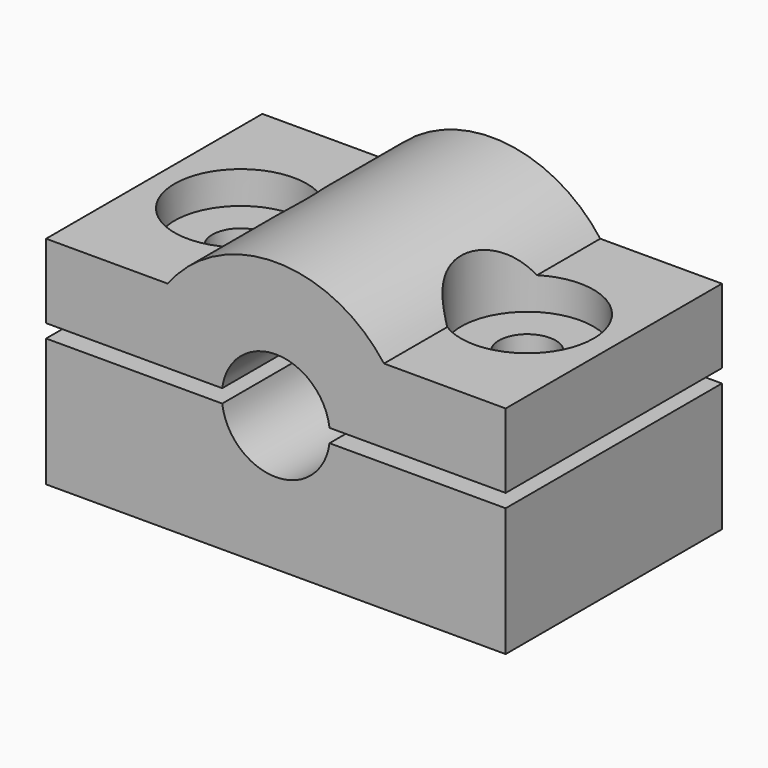
from build123d import *

# Parameters (mm, degrees)
F0_W     = 34
F0_H     = 20
F1_DEPTH = 20
F2_R     = 4
F3_DEPTH = 20
F4_R     = 4.9
F4_R_2   = 2.1
F5_DEPTH = 6.4
F6_DEPTH = 20
F8_DEPTH = 20


with BuildPart() as f1:
    # F0 (on Top) → F1 (new body)
    with BuildSketch(Plane.XY):
        Rectangle(F0_W, F0_H)
    extrude(amount=F1_DEPTH)

    # F2 (on face) → F3 (cut, through all)
    with BuildSketch(Plane.XZ.offset(10)):
        with Locations((0, 10)):
            Circle(F2_R)
    extrude(amount=-F3_DEPTH, mode=Mode.SUBTRACT)

    # F4 (on face) → F5 (cut)
    with BuildSketch(Plane.XY.offset(20)):
        with Locations((-10.6, 0)):
            Circle(F4_R)
        with Locations((-10.6, 0)):
            Circle(F4_R_2, mode=Mode.SUBTRACT)
        with Locations((10.6, 0)):
            Circle(F4_R)
        with Locations((10.6, 0)):
            Circle(F4_R_2, mode=Mode.SUBTRACT)
    extrude(amount=-F5_DEPTH, mode=Mode.SUBTRACT)

    # F4 (on face) → F6 (cut, through all)
    with BuildSketch(Plane.XY.offset(20)):
        with Locations((-10.6, 0)):
            Circle(F4_R_2)
        with Locations((10.6, 0)):
            Circle(F4_R_2)
    extrude(amount=-F6_DEPTH, mode=Mode.SUBTRACT)

    # F7 (on face) → F8 (cut, through all)
    with BuildSketch(Plane.XZ.offset(10)):
        with BuildLine():
            ThreePointArc((-8, 16), (-4.472135955, 18.94427191), (0, 20))
            Line((0, 20), (-17, 20))
            Line((-17, 20), (-17, 16))
            Line((-17, 16), (-8, 16))
        make_face()
        with BuildLine():
            ThreePointArc((0, 20), (4.472135955, 18.94427191), (8, 16))
            Line((8, 16), (17, 16))
            Line((17, 16), (17, 20))
            Line((17, 20), (0, 20))
        make_face()
        with BuildLine():
            ThreePointArc((9.9874921777, 9.5), (9.9968725554, 9.7499217894), (10, 10))
            ThreePointArc((10, 10), (9.9968725554, 10.2500782106), (9.9874921777, 10.5))
            Line((9.9874921777, 10.5), (3.9686269666, 10.5))
            ThreePointArc((3.9686269666, 10.5), (3.9921490369, 10.2504916502), (4, 10))
            ThreePointArc((4, 10), (3.9921490369, 9.7495083498), (3.9686269666, 9.5))
            Line((3.9686269666, 9.5), (9.9874921777, 9.5))
        make_face()
        with BuildLine():
            ThreePointArc((9.9874921777, 10.5), (9.9968725554, 10.2500782106), (10, 10))
            ThreePointArc((10, 10), (9.9968725554, 9.7499217894), (9.9874921777, 9.5))
            Line((9.9874921777, 9.5), (17, 9.5))
            Line((17, 9.5), (17, 10.5))
            Line((17, 10.5), (9.9874921777, 10.5))
        make_face()
        with BuildLine():
            ThreePointArc((-3.9686269666, 9.5), (-4, 10), (-3.9686269666, 10.5))
            Line((-3.9686269666, 10.5), (-9.9874921777, 10.5))
            ThreePointArc((-9.9874921777, 10.5), (-10, 10), (-9.9874921777, 9.5))
            Line((-9.9874921777, 9.5), (-3.9686269666, 9.5))
        make_face()
        with BuildLine():
            Line((-17, 9.5), (-9.9874921777, 9.5))
            ThreePointArc((-9.9874921777, 9.5), (-10, 10), (-9.9874921777, 10.5))
            Line((-9.9874921777, 10.5), (-17, 10.5))
            Line((-17, 10.5), (-17, 9.5))
        make_face()
    extrude(amount=-F8_DEPTH, mode=Mode.SUBTRACT)


solid = f1.part
